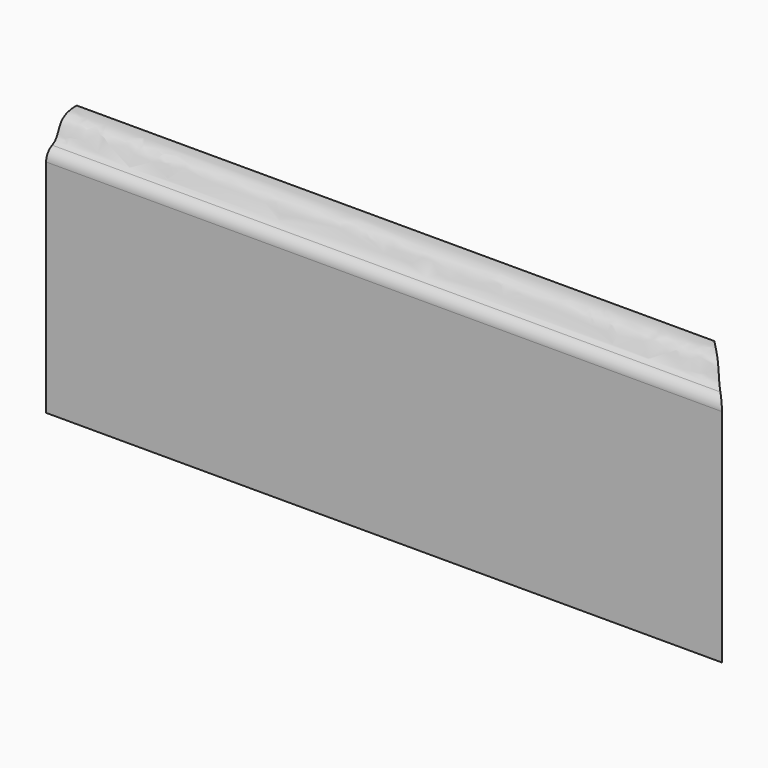
from build123d import *

# Parameters (mm, degrees)
F0_W     = 336.55
F0_H     = 127
F1_DEPTH = 19.05
F3_DEPTH = 336.551
F5_DEPTH = 127.0010001


with BuildPart() as f1:
    # F0 (on Front) → F1 (new body)
    with BuildSketch(Plane.XZ):
        Rectangle(F0_W, F0_H)
    extrude(amount=F1_DEPTH)

    # F2 (on face) → F3 (cut, through all)
    with BuildSketch(Plane.YZ.offset(168.275)):
        with BuildLine():
            add(Edge.make_bspline(
                [(0, 63.5), (-13.8609133718, 63.5), (-9.1129885479, 55.0204556119), (-15.256598862, 52.3182653746)],
                knots=[0, 0, 0, 0, 19.4568359991, 19.4568359991, 19.4568359991, 19.4568359991], degree=3))
            Line((0, 63.5), (-19.05, 63.5))
            Line((-19.05, 63.5), (-19.05, 51.528967917))
            add(Edge.make_bspline(
                [(-15.256598862, 52.3182653746), (-16.2172018341, 51.8957561593), (-17.4440793365, 51.6144907855), (-19.05, 51.528967917)],
                knots=[19.4568359991, 19.4568359991, 19.4568359991, 19.4568359991, 22.4990690726, 22.4990690726, 22.4990690726, 22.4990690726], degree=3))
        make_face()
        with BuildLine():
            ThreePointArc((-19.05, 46.505666794), (-18.0177487141, 49.976120455), (-15.256598862, 52.3182653746))
            add(Edge.make_bspline(
                [(-15.256598862, 52.3182653746), (-16.2172018341, 51.8957561593), (-17.4440793365, 51.6144907855), (-19.05, 51.528967917)],
                knots=[19.4568359991, 19.4568359991, 19.4568359991, 19.4568359991, 22.4990690726, 22.4990690726, 22.4990690726, 22.4990690726], degree=3))
            Line((-19.05, 51.528967917), (-19.05, 46.505666794))
        make_face()
    extrude(amount=-F3_DEPTH, mode=Mode.SUBTRACT)

    # F4 (on face) → F5 (cut, through all)
    with BuildSketch(Plane(origin=(0, 0, -63.5), x_dir=(1, 0, 0), z_dir=(0, 0, -1))):
        Polygon((168.275, 19.05), (149.225, 0), (168.275, 0), align=None)
    extrude(amount=-F5_DEPTH, mode=Mode.SUBTRACT)


solid = f1.part
